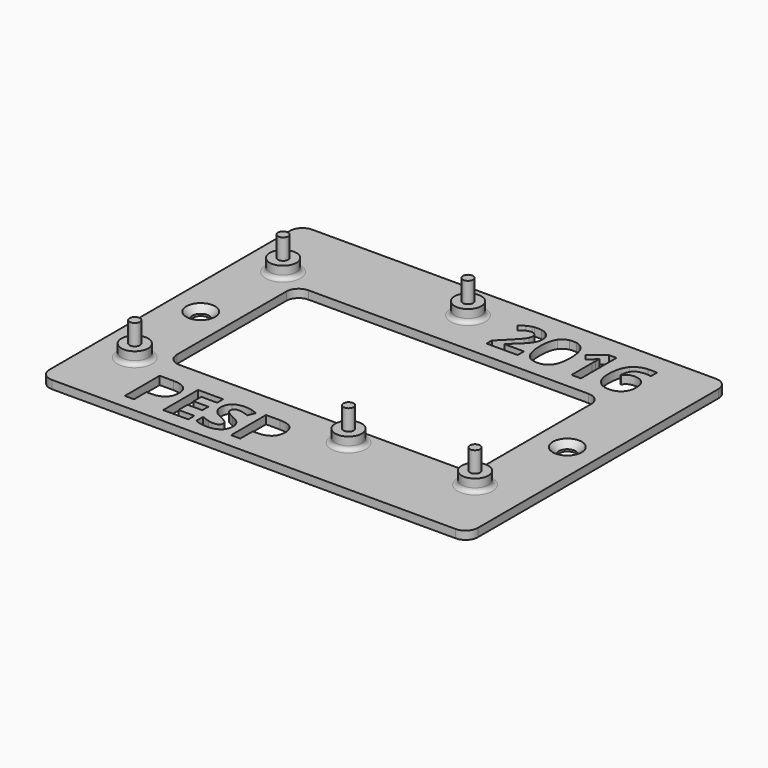
from build123d import *

# Parameters (mm, degrees)
F0_W     = 104
F0_H     = 79
F0_R     = 3.25
F0_R_2   = 2
F0_W_2   = 74
F0_H_2   = 39.1893478004
F0_R_3   = 1.25
F1_DEPTH = 2
F2_DEPTH = 5
F3_DEPTH = 10
F4_R     = 3
F5_R     = 1
F6_SIZE  = 1.5


with BuildPart() as f1:
    # F0 (on Top) → F1 (new body)
    with BuildSketch(Plane.XY):
        Rectangle(F0_W, F0_H)
        with BuildLine():
            Line((47, 34.5), (47, -34.5))
            Line((47, -34.5), (-6.0724727809, -34.5))
            Line((-6.0724727809, -34.5), (-6.0724727809, -36.0102653503))
            Line((-6.0724727809, -36.0102653503), (-8.3201161663, -36.0102653503))
            Line((-8.3201161663, -36.0102653503), (-8.3201161663, -34.5))
            Line((-8.3201161663, -34.5), (-10.5733430541, -34.5))
            add(Edge.make_bspline(
                [(-10.5733430541, -34.5), (-10.8269936222, -34.9717222625), (-11.2740623493, -35.3294775964)],
                knots=[0.567363702, 0.567363702, 0.567363702, 1, 1, 1], degree=2))
            add(Edge.make_bspline(
                [(-11.2740623493, -35.3294775964), (-12.3074216147, -36.1563969636), (-14.1468243027, -36.1563969636)],
                knots=[0, 0, 0, 1, 1, 1], degree=2))
            add(Edge.make_bspline(
                [(-14.1468243027, -36.1563969636), (-15.8447344762, -36.1563969636), (-17.1483212487, -35.5162013245)],
                knots=[0, 0, 0, 1, 1, 1], degree=2))
            Line((-17.1483212487, -35.5162013245), (-17.1483212487, -34.5))
            Line((-17.1483212487, -34.5), (-18.7070584571, -34.5))
            Line((-18.7070584571, -34.5), (-18.7070584571, -36.0102653503))
            Line((-18.7070584571, -36.0102653503), (-24.8097929741, -36.0102653503))
            Line((-24.8097929741, -36.0102653503), (-24.8097929741, -34.5))
            Line((-24.8097929741, -34.5), (-31.884418697, -34.5))
            Line((-31.884418697, -34.5), (-31.884418697, -36.0102653503))
            Line((-31.884418697, -36.0102653503), (-34.1320620824, -36.0102653503))
            Line((-34.1320620824, -36.0102653503), (-34.1320620824, -34.5))
            Line((-34.1320620824, -34.5), (-47, -34.5))
            Line((-47, -34.5), (-47, 34.5))
            Line((-47, 34.5), (8.9158176931, 34.5))
            add(Edge.make_bspline(
                [(8.9158176931, 34.5), (9.345360354, 34.5614452624), (9.8349081539, 34.5614452624)],
                knots=[0.3626225608, 0.3626225608, 0.3626225608, 1, 1, 1], degree=2))
            add(Edge.make_bspline(
                [(9.8349081539, 34.5614452624), (10.2478445841, 34.5614452624), (10.6213930256, 34.5)],
                knots=[0, 0, 0, 0.4082482905, 0.4082482905, 0.4082482905], degree=2))
            Line((10.6213930256, 34.5), (17.486410664, 34.5))
            add(Edge.make_bspline(
                [(17.486410664, 34.5), (17.8894819655, 34.5779882177), (18.349803554, 34.5779882177)],
                knots=[0.7601220886, 0.7601220886, 0.7601220886, 1, 1, 1], degree=2))
            add(Edge.make_bspline(
                [(18.349803554, 34.5779882177), (18.7882059141, 34.5779882177), (19.1763708639, 34.5)],
                knots=[0, 0, 0, 0.234520788, 0.234520788, 0.234520788], degree=2))
            Line((19.1763708639, 34.5), (36.4914041533, 34.5))
            add(Edge.make_bspline(
                [(36.4914041533, 34.5), (36.8559305565, 34.5330859105), (37.2489482985, 34.5330859105)],
                knots=[0.8546312431, 0.8546312431, 0.8546312431, 1, 1, 1], degree=2))
            add(Edge.make_bspline(
                [(37.2489482985, 34.5330859105), (37.7519792999, 34.5330859105), (38.13674577, 34.5)],
                knots=[0, 0, 0, 0.5457768229, 0.5457768229, 0.5457768229], degree=2))
            Line((38.13674577, 34.5), (47, 34.5))
        make_face(mode=Mode.SUBTRACT)
        with BuildLine():
            Line((-6.0724727809, -34.5), (47, -34.5))
            Line((47, -34.5), (47, 34.5))
            Line((47, 34.5), (38.13674577, 34.5))
            add(Edge.make_bspline(
                [(38.13674577, 34.5), (38.4569679583, 34.4724642257), (38.6952752441, 34.4220117823)],
                knots=[0.5457768229, 0.5457768229, 0.5457768229, 1, 1, 1], degree=2))
            Line((38.6952752441, 34.4220117823), (38.6952752441, 32.5975601451))
            add(Edge.make_bspline(
                [(38.6952752441, 32.5975601451), (38.0382835923, 32.7464467425), (37.3954716165, 32.7464467425)],
                knots=[0, 0, 0, 1, 1, 1], degree=2))
            add(Edge.make_bspline(
                [(37.3954716165, 32.7464467425), (36.2209217931, 32.7464467425), (35.4788520857, 32.3919548441)],
                knots=[0, 0, 0, 1, 1, 1], degree=2))
            add(Edge.make_bspline(
                [(35.4788520857, 32.3919548441), (34.7367823783, 32.0374629456), (34.368110804, 31.3426588247)],
                knots=[0, 0, 0, 1, 1, 1], degree=2))
            add(Edge.make_bspline(
                [(34.368110804, 31.3426588247), (33.9994392296, 30.6478547038), (33.9332674086, 29.3716838695)],
                knots=[0, 0, 0, 1, 1, 1], degree=2))
            Line((33.9332674086, 29.3716838695), (34.0277985815, 29.3716838695))
            add(Edge.make_bspline(
                [(34.0277985815, 29.3716838695), (34.7604151716, 30.6265851899), (36.3698083904, 30.6265851899)],
                knots=[0, 0, 0, 1, 1, 1], degree=2))
            add(Edge.make_bspline(
                [(36.3698083904, 30.6265851899), (37.816135336, 30.6265851899), (38.636193261, 29.7179042903)],
                knots=[0, 0, 0, 1, 1, 1], degree=2))
            add(Edge.make_bspline(
                [(38.636193261, 29.7179042903), (39.456251186, 28.8092233907), (39.456251186, 27.2069200098)],
                knots=[0, 0, 0, 1, 1, 1], degree=2))
            add(Edge.make_bspline(
                [(39.456251186, 27.2069200098), (39.456251186, 25.4793628248), (38.4813984653, 24.470242554)],
                knots=[0, 0, 0, 1, 1, 1], degree=2))
            add(Edge.make_bspline(
                [(38.4813984653, 24.470242554), (37.5065457447, 23.4611222832), (35.7789885597, 23.4611222832)],
                knots=[0, 0, 0, 1, 1, 1], degree=2))
            add(Edge.make_bspline(
                [(35.7789885597, 23.4611222832), (34.5831692224, 23.4611222832), (33.6922129177, 24.0153112844)],
                knots=[0, 0, 0, 1, 1, 1], degree=2))
            add(Edge.make_bspline(
                [(33.6922129177, 24.0153112844), (32.801256613, 24.5695002856), (32.3179659915, 25.6329759808)],
                knots=[0, 0, 0, 1, 1, 1], degree=2))
            add(Edge.make_bspline(
                [(32.3179659915, 25.6329759808), (31.8346753699, 26.6964516761), (31.8346753699, 28.1971340461)],
                knots=[0, 0, 0, 1, 1, 1], degree=2))
            add(Edge.make_bspline(
                [(31.8346753699, 28.1971340461), (31.8346753699, 31.4017408078), (33.1900160616, 32.9674133592)],
                knots=[0, 0, 0, 1, 1, 1], degree=2))
            add(Edge.make_bspline(
                [(33.1900160616, 32.9674133592), (34.3483325617, 34.3054860381), (36.4914041533, 34.5)],
                knots=[0, 0, 0, 0.8546312431, 0.8546312431, 0.8546312431], degree=2))
            Line((36.4914041533, 34.5), (19.1763708639, 34.5))
            add(Edge.make_bspline(
                [(19.1763708639, 34.5), (20.4433468215, 34.2454453402), (21.1751039844, 33.160020624)],
                knots=[0.234520788, 0.234520788, 0.234520788, 1, 1, 1], degree=2))
            add(Edge.make_bspline(
                [(21.1751039844, 33.160020624), (22.1310504705, 31.7420530303), (22.1310504705, 29.0077388538)],
                knots=[0, 0, 0, 1, 1, 1], degree=2))
            add(Edge.make_bspline(
                [(22.1310504705, 29.0077388538), (22.1310504705, 26.1812567837), (21.2046449759, 24.8211895334)],
                knots=[0, 0, 0, 1, 1, 1], degree=2))
            add(Edge.make_bspline(
                [(21.2046449759, 24.8211895334), (20.2782394814, 23.4611222832), (18.349803554, 23.4611222832)],
                knots=[0, 0, 0, 1, 1, 1], degree=2))
            add(Edge.make_bspline(
                [(18.349803554, 23.4611222832), (16.4804496096, 23.4611222832), (15.5315929615, 24.8649102009)],
                knots=[0, 0, 0, 1, 1, 1], degree=2))
            add(Edge.make_bspline(
                [(15.5315929615, 24.8649102009), (14.5827363134, 26.2686981187), (14.5827363134, 29.0077388538)],
                knots=[0, 0, 0, 1, 1, 1], degree=2))
            add(Edge.make_bspline(
                [(14.5827363134, 29.0077388538), (14.5827363134, 31.8673068344), (15.5067785287, 33.222647526)],
                knots=[0, 0, 0, 1, 1, 1], degree=2))
            add(Edge.make_bspline(
                [(15.5067785287, 33.222647526), (16.2091634272, 34.2528719233), (17.486410664, 34.5)],
                knots=[0, 0, 0, 0.7601220886, 0.7601220886, 0.7601220886], degree=2))
            Line((17.486410664, 34.5), (10.6213930256, 34.5))
            add(Edge.make_bspline(
                [(10.6213930256, 34.5), (11.1628476599, 34.4109357224), (11.621547322, 34.192773688)],
                knots=[0.4082482905, 0.4082482905, 0.4082482905, 1, 1, 1], degree=2))
            add(Edge.make_bspline(
                [(11.621547322, 34.192773688), (12.3967029398, 33.8241021137), (12.8256381369, 33.1588389843)],
                knots=[0, 0, 0, 1, 1, 1], degree=2))
            add(Edge.make_bspline(
                [(12.8256381369, 33.1588389843), (13.254573334, 32.4935758549), (13.254573334, 31.6380687401)],
                knots=[0, 0, 0, 1, 1, 1], degree=2))
            add(Edge.make_bspline(
                [(13.254573334, 31.6380687401), (13.254573334, 30.8912724741), (12.9922493292, 30.2378257413)],
                knots=[0, 0, 0, 1, 1, 1], degree=2))
            add(Edge.make_bspline(
                [(12.9922493292, 30.2378257413), (12.7299253244, 29.5843790086), (12.1792812421, 28.8978463653)],
                knots=[0, 0, 0, 1, 1, 1], degree=2))
            add(Edge.make_bspline(
                [(12.1792812421, 28.8978463653), (11.6286371599, 28.211313722), (10.2413921974, 26.9398694463)],
                knots=[0, 0, 0, 1, 1, 1], degree=2))
            Line((10.2413921974, 26.9398694463), (8.8517839556, 25.6329759808))
            Line((8.8517839556, 25.6329759808), (8.8517839556, 25.5313549699))
            Line((8.8517839556, 25.5313549699), (13.5570730873, 25.5313549699))
            Line((13.5570730873, 25.5313549699), (13.5570730873, 23.6100088805))
            Line((13.5570730873, 23.6100088805), (6.0087589303, 23.6100088805))
            Line((6.0087589303, 23.6100088805), (6.0087589303, 25.1981325854))
            Line((6.0087589303, 25.1981325854), (8.7194403135, 27.9371733206))
            add(Edge.make_bspline(
                [(8.7194403135, 27.9371733206), (9.9247127682, 29.1708051271), (10.2933843425, 29.6470059106)],
                knots=[0, 0, 0, 1, 1, 1], degree=2))
            add(Edge.make_bspline(
                [(10.2933843425, 29.6470059106), (10.6620559169, 30.1232066942), (10.8251221902, 30.5296907377)],
                knots=[0, 0, 0, 1, 1, 1], degree=2))
            add(Edge.make_bspline(
                [(10.8251221902, 30.5296907377), (10.9881884634, 30.9361747812), (10.9881884634, 31.3710181766)],
                knots=[0, 0, 0, 1, 1, 1], degree=2))
            add(Edge.make_bspline(
                [(10.9881884634, 31.3710181766), (10.9881884634, 32.0209199904), (10.6289700064, 32.3387810593)],
                knots=[0, 0, 0, 1, 1, 1], degree=2))
            add(Edge.make_bspline(
                [(10.6289700064, 32.3387810593), (10.2697515493, 32.6566421282), (9.6718418806, 32.6566421282)],
                knots=[0, 0, 0, 1, 1, 1], degree=2))
            add(Edge.make_bspline(
                [(9.6718418806, 32.6566421282), (9.0455728601, 32.6566421282), (8.4547530294, 32.3683220508)],
                knots=[0, 0, 0, 1, 1, 1], degree=2))
            add(Edge.make_bspline(
                [(8.4547530294, 32.3683220508), (7.8639331987, 32.0800019734), (7.2211212229, 31.5482641258)],
                knots=[0, 0, 0, 1, 1, 1], degree=2))
            Line((7.2211212229, 31.5482641258), (5.9803995784, 33.0182238646))
            add(Edge.make_bspline(
                [(5.9803995784, 33.0182238646), (6.7768247102, 33.6988483096), (7.3014727199, 33.9788969093)],
                knots=[0, 0, 0, 1, 1, 1], degree=2))
            add(Edge.make_bspline(
                [(7.3014727199, 33.9788969093), (7.8261207295, 34.2589455091), (8.4464815518, 34.4101953857)],
                knots=[0, 0, 0, 1, 1, 1], degree=2))
            add(Edge.make_bspline(
                [(8.4464815518, 34.4101953857), (8.6714383817, 34.4650420033), (8.9158176931, 34.5)],
                knots=[0, 0, 0, 0.3626225608, 0.3626225608, 0.3626225608], degree=2))
            Line((8.9158176931, 34.5), (-47, 34.5))
            Line((-47, 34.5), (-47, -34.5))
            Line((-47, -34.5), (-34.1320620824, -34.5))
            Line((-34.1320620824, -34.5), (-34.1320620824, -25.4122440626))
            Line((-34.1320620824, -25.4122440626), (-30.7478394825, -25.4122440626))
            add(Edge.make_bspline(
                [(-30.7478394825, -25.4122440626), (-28.8179743673, -25.4122440626), (-27.8147692443, -26.242642754)],
                knots=[0, 0, 0, 1, 1, 1], degree=2))
            add(Edge.make_bspline(
                [(-27.8147692443, -26.242642754), (-26.8115641213, -27.0730414454), (-26.8115641213, -28.7176019823)],
                knots=[0, 0, 0, 1, 1, 1], degree=2))
            add(Edge.make_bspline(
                [(-26.8115641213, -28.7176019823), (-26.8115641213, -30.4294294522), (-27.8808764027, -31.3352134997)],
                knots=[0, 0, 0, 1, 1, 1], degree=2))
            add(Edge.make_bspline(
                [(-27.8808764027, -31.3352134997), (-28.9501886841, -32.2409975472), (-30.9218056888, -32.2409975472)],
                knots=[0, 0, 0, 1, 1, 1], degree=2))
            Line((-30.9218056888, -32.2409975472), (-31.884418697, -32.2409975472))
            Line((-31.884418697, -32.2409975472), (-31.884418697, -34.5))
            Line((-31.884418697, -34.5), (-24.8097929741, -34.5))
            Line((-24.8097929741, -34.5), (-24.8097929741, -25.4122440626))
            Line((-24.8097929741, -25.4122440626), (-18.7070584571, -25.4122440626))
            Line((-18.7070584571, -25.4122440626), (-18.7070584571, -27.2539662999))
            Line((-18.7070584571, -27.2539662999), (-22.5621495887, -27.2539662999))
            Line((-22.5621495887, -27.2539662999), (-22.5621495887, -29.5804743655))
            Line((-22.5621495887, -29.5804743655), (-18.9738066401, -29.5804743655))
            Line((-18.9738066401, -29.5804743655), (-18.9738066401, -31.4221966029))
            Line((-18.9738066401, -31.4221966029), (-22.5621495887, -31.4221966029))
            Line((-22.5621495887, -31.4221966029), (-22.5621495887, -34.1546258165))
            Line((-22.5621495887, -34.1546258165), (-18.7070584571, -34.1546258165))
            Line((-18.7070584571, -34.1546258165), (-18.7070584571, -34.5))
            Line((-18.7070584571, -34.5), (-17.1483212487, -34.5))
            Line((-17.1483212487, -34.5), (-17.1483212487, -33.4286068489))
            add(Edge.make_bspline(
                [(-17.1483212487, -33.4286068489), (-16.0766894179, -33.9087535782), (-15.3332738296, -34.1035957293)],
                knots=[0, 0, 0, 1, 1, 1], degree=2))
            add(Edge.make_bspline(
                [(-15.3332738296, -34.1035957293), (-14.5898582414, -34.2984378804), (-13.9728580964, -34.2984378804)],
                knots=[0, 0, 0, 1, 1, 1], degree=2))
            add(Edge.make_bspline(
                [(-13.9728580964, -34.2984378804), (-13.2352413817, -34.2984378804), (-12.839758206, -34.0166126261)],
                knots=[0, 0, 0, 1, 1, 1], degree=2))
            add(Edge.make_bspline(
                [(-12.839758206, -34.0166126261), (-12.4442750303, -33.7347873719), (-12.4442750303, -33.1757759624)],
                knots=[0, 0, 0, 1, 1, 1], degree=2))
            add(Edge.make_bspline(
                [(-12.4442750303, -33.1757759624), (-12.4442750303, -32.8649563404), (-12.6182412366, -32.6214036516)],
                knots=[0, 0, 0, 1, 1, 1], degree=2))
            add(Edge.make_bspline(
                [(-12.6182412366, -32.6214036516), (-12.7922074429, -32.3778509628), (-13.1297018832, -32.154014444)],
                knots=[0, 0, 0, 1, 1, 1], degree=2))
            add(Edge.make_bspline(
                [(-13.1297018832, -32.154014444), (-13.4671963234, -31.9301779253), (-14.5040349129, -31.4361138994)],
                knots=[0, 0, 0, 1, 1, 1], degree=2))
            add(Edge.make_bspline(
                [(-14.5040349129, -31.4361138994), (-15.4736065694, -30.9791626642), (-15.9595521723, -30.5593242196)],
                knots=[0, 0, 0, 1, 1, 1], degree=2))
            add(Edge.make_bspline(
                [(-15.9595521723, -30.5593242196), (-16.4454977752, -30.1394857751), (-16.7354414524, -29.5804743655)],
                knots=[0, 0, 0, 1, 1, 1], degree=2))
            add(Edge.make_bspline(
                [(-16.7354414524, -29.5804743655), (-17.0253851296, -29.0214629559), (-17.0253851296, -28.276887593)],
                knots=[0, 0, 0, 1, 1, 1], degree=2))
            add(Edge.make_bspline(
                [(-17.0253851296, -28.276887593), (-17.0253851296, -26.8689210966), (-16.0720503191, -26.0651972235)],
                knots=[0, 0, 0, 1, 1, 1], degree=2))
            add(Edge.make_bspline(
                [(-16.0720503191, -26.0651972235), (-15.1187155085, -25.2614733504), (-13.437042181, -25.2614733504)],
                knots=[0, 0, 0, 1, 1, 1], degree=2))
            add(Edge.make_bspline(
                [(-13.437042181, -25.2614733504), (-12.6112825884, -25.2614733504), (-11.8609083519, -25.4563155015)],
                knots=[0, 0, 0, 1, 1, 1], degree=2))
            add(Edge.make_bspline(
                [(-11.8609083519, -25.4563155015), (-11.1105341154, -25.6511576525), (-10.2917331711, -26.0060487134)],
                knots=[0, 0, 0, 1, 1, 1], degree=2))
            Line((-10.2917331711, -26.0060487134), (-11.0154325893, -27.7549889741))
            add(Edge.make_bspline(
                [(-11.0154325893, -27.7549889741), (-11.864387676, -27.4070565615), (-12.4187599868, -27.2690433711)],
                knots=[0, 0, 0, 1, 1, 1], degree=2))
            add(Edge.make_bspline(
                [(-12.4187599868, -27.2690433711), (-12.9731322975, -27.1310301808), (-13.5089482129, -27.1310301808)],
                knots=[0, 0, 0, 1, 1, 1], degree=2))
            add(Edge.make_bspline(
                [(-13.5089482129, -27.1310301808), (-14.1468243027, -27.1310301808), (-14.487798067, -27.4279325062)],
                knots=[0, 0, 0, 1, 1, 1], degree=2))
            add(Edge.make_bspline(
                [(-14.487798067, -27.4279325062), (-14.8287718314, -27.7248348316), (-14.8287718314, -28.2026620116)],
                knots=[0, 0, 0, 1, 1, 1], degree=2))
            add(Edge.make_bspline(
                [(-14.8287718314, -28.2026620116), (-14.8287718314, -28.499564337), (-14.690758641, -28.7210813064)],
                knots=[0, 0, 0, 1, 1, 1], degree=2))
            add(Edge.make_bspline(
                [(-14.690758641, -28.7210813064), (-14.5527454507, -28.9425982757), (-14.2523638012, -29.1490381739)],
                knots=[0, 0, 0, 1, 1, 1], degree=2))
            add(Edge.make_bspline(
                [(-14.2523638012, -29.1490381739), (-13.9519821516, -29.355478072), (-12.8293202336, -29.8912939874)],
                knots=[0, 0, 0, 1, 1, 1], degree=2))
            add(Edge.make_bspline(
                [(-12.8293202336, -29.8912939874), (-11.3424890571, -30.6033956585), (-10.7915960705, -31.3166571044)],
                knots=[0, 0, 0, 1, 1, 1], degree=2))
            add(Edge.make_bspline(
                [(-10.7915960705, -31.3166571044), (-10.2407030839, -32.0299185502), (-10.2407030839, -33.0667571397)],
                knots=[0, 0, 0, 1, 1, 1], degree=2))
            add(Edge.make_bspline(
                [(-10.2407030839, -33.0667571397), (-10.2407030839, -33.8813785611), (-10.5733430541, -34.5)],
                knots=[0, 0, 0, 0.567363702, 0.567363702, 0.567363702], degree=2))
            Line((-10.5733430541, -34.5), (-8.3201161663, -34.5))
            Line((-8.3201161663, -34.5), (-8.3201161663, -25.4122440626))
            Line((-8.3201161663, -25.4122440626), (-4.9358935665, -25.4122440626))
            add(Edge.make_bspline(
                [(-4.9358935665, -25.4122440626), (-3.0060284512, -25.4122440626), (-2.0028233282, -26.242642754)],
                knots=[0, 0, 0, 1, 1, 1], degree=2))
            add(Edge.make_bspline(
                [(-2.0028233282, -26.242642754), (-0.9996182052, -27.0730414454), (-0.9996182052, -28.7176019823)],
                knots=[0, 0, 0, 1, 1, 1], degree=2))
            add(Edge.make_bspline(
                [(-0.9996182052, -28.7176019823), (-0.9996182052, -30.4294294522), (-2.0689304866, -31.3352134997)],
                knots=[0, 0, 0, 1, 1, 1], degree=2))
            add(Edge.make_bspline(
                [(-2.0689304866, -31.3352134997), (-3.138242768, -32.2409975472), (-5.1098597728, -32.2409975472)],
                knots=[0, 0, 0, 1, 1, 1], degree=2))
            Line((-5.1098597728, -32.2409975472), (-6.0724727809, -32.2409975472))
            Line((-6.0724727809, -32.2409975472), (-6.0724727809, -34.5))
        make_face()
        with Locations((-42.5, -22.5)):
            Circle(F0_R, mode=Mode.SUBTRACT)
        with Locations((11, -24.5)):
            Circle(F0_R, mode=Mode.SUBTRACT)
        with Locations((40.5, -23)):
            Circle(F0_R, mode=Mode.SUBTRACT)
        with Locations((-44.5, 0)):
            Circle(F0_R_2, mode=Mode.SUBTRACT)
        with Locations((-42.5, 22.5)):
            Circle(F0_R, mode=Mode.SUBTRACT)
        with Locations((-4, 30.5)):
            Circle(F0_R, mode=Mode.SUBTRACT)
        Rectangle(F0_W_2, F0_H_2, mode=Mode.SUBTRACT)
        with Locations((44.5, 0)):
            Circle(F0_R_2, mode=Mode.SUBTRACT)
        with BuildLine():
            Line((28.9183886856, 34.4078321064), (28.9183886856, 23.6100088805))
            Line((28.9183886856, 23.6100088805), (26.6354608598, 23.6100088805))
            Line((26.6354608598, 23.6100088805), (26.6354608598, 29.85851941))
            Line((26.6354608598, 29.85851941), (26.659093653, 30.8841826361))
            Line((26.659093653, 30.8841826361), (26.6945428428, 32.0067403144))
            add(Edge.make_bspline(
                [(26.6945428428, 32.0067403144), (26.1273558054, 31.439553277), (25.905207549, 31.2623073278)],
                knots=[0, 0, 0, 1, 1, 1], degree=2))
            Line((25.905207549, 31.2623073278), (24.6644859045, 30.2650034535))
            Line((24.6644859045, 30.2650034535), (23.5631977401, 31.6380687401))
            Line((23.5631977401, 31.6380687401), (27.0419449033, 34.4078321064))
            Line((27.0419449033, 34.4078321064), (28.9183886856, 34.4078321064))
        make_face(mode=Mode.SUBTRACT)
        with Locations((-4, 30.5)):
            Circle(F0_R)
        with Locations((-4, 30.5)):
            Circle(F0_R_3, mode=Mode.SUBTRACT)
        with Locations((40.5, -23)):
            Circle(F0_R)
        with Locations((40.5, -23)):
            Circle(F0_R_3, mode=Mode.SUBTRACT)
        with Locations((11, -24.5)):
            Circle(F0_R)
        with Locations((11, -24.5)):
            Circle(F0_R_3, mode=Mode.SUBTRACT)
        with Locations((-42.5, -22.5)):
            Circle(F0_R)
        with Locations((-42.5, -22.5)):
            Circle(F0_R_3, mode=Mode.SUBTRACT)
        with Locations((-42.5, 22.5)):
            Circle(F0_R)
        with Locations((-42.5, 22.5)):
            Circle(F0_R_3, mode=Mode.SUBTRACT)
        with Locations((-4, 30.5)):
            Circle(F0_R_3)
        with Locations((40.5, -23)):
            Circle(F0_R_3)
        with Locations((11, -24.5)):
            Circle(F0_R_3)
        with Locations((-42.5, -22.5)):
            Circle(F0_R_3)
        with Locations((-42.5, 22.5)):
            Circle(F0_R_3)
    extrude(amount=F1_DEPTH)

    # F0 (on Top) → F2 (join)
    with BuildSketch(Plane.XY):
        with Locations((-4, 30.5)):
            Circle(F0_R)
        with Locations((-4, 30.5)):
            Circle(F0_R_3, mode=Mode.SUBTRACT)
        with Locations((-42.5, -22.5)):
            Circle(F0_R)
        with Locations((-42.5, -22.5)):
            Circle(F0_R_3, mode=Mode.SUBTRACT)
        with Locations((11, -24.5)):
            Circle(F0_R)
        with Locations((11, -24.5)):
            Circle(F0_R_3, mode=Mode.SUBTRACT)
        with Locations((40.5, -23)):
            Circle(F0_R)
        with Locations((40.5, -23)):
            Circle(F0_R_3, mode=Mode.SUBTRACT)
        with Locations((-42.5, 22.5)):
            Circle(F0_R)
        with Locations((-42.5, 22.5)):
            Circle(F0_R_3, mode=Mode.SUBTRACT)
        with Locations((-4, 30.5)):
            Circle(F0_R_3)
        with Locations((-42.5, -22.5)):
            Circle(F0_R_3)
        with Locations((11, -24.5)):
            Circle(F0_R_3)
        with Locations((40.5, -23)):
            Circle(F0_R_3)
        with Locations((-42.5, 22.5)):
            Circle(F0_R_3)
    extrude(amount=F2_DEPTH)

    # F0 (on Top) → F3 (join)
    with BuildSketch(Plane.XY):
        with Locations((-4, 30.5)):
            Circle(F0_R_3)
        with Locations((-42.5, 22.5)):
            Circle(F0_R_3)
        with Locations((-42.5, -22.5)):
            Circle(F0_R_3)
        with Locations((11, -24.5)):
            Circle(F0_R_3)
        with Locations((40.5, -23)):
            Circle(F0_R_3)
    extrude(amount=F3_DEPTH)

    # F4
    f4_edges = [f1.edges().sort_by_distance(p)[0] for p in [
        (-37, 19.594674, 1),
        (37, 19.594674, 1),
        (-37, -19.594674, 1),
        (37, -19.594674, 1),
        (52, 39.5, 1),
        (52, -39.5, 1),
        (-52, 39.5, 1),
        (-52, -39.5, 1),
    ]]
    fillet(f4_edges, radius=F4_R)

    # F5
    f5_edges = [f1.edges().sort_by_distance(p)[0] for p in [
        (-45.75, 22.5, 2),
        (-45.75, -22.5, 2),
        (7.75, -24.5, 2),
        (37.25, -23, 2),
        (-7.25, 30.5, 2),
    ]]
    fillet(f5_edges, radius=F5_R)

    # F6
    f6_edges = [f1.edges().sort_by_distance(p)[0] for p in [
        (-46.5, 0, 2),
        (42.5, 0, 2),
    ]]
    chamfer(f6_edges, length=F6_SIZE)


solid = f1.part
